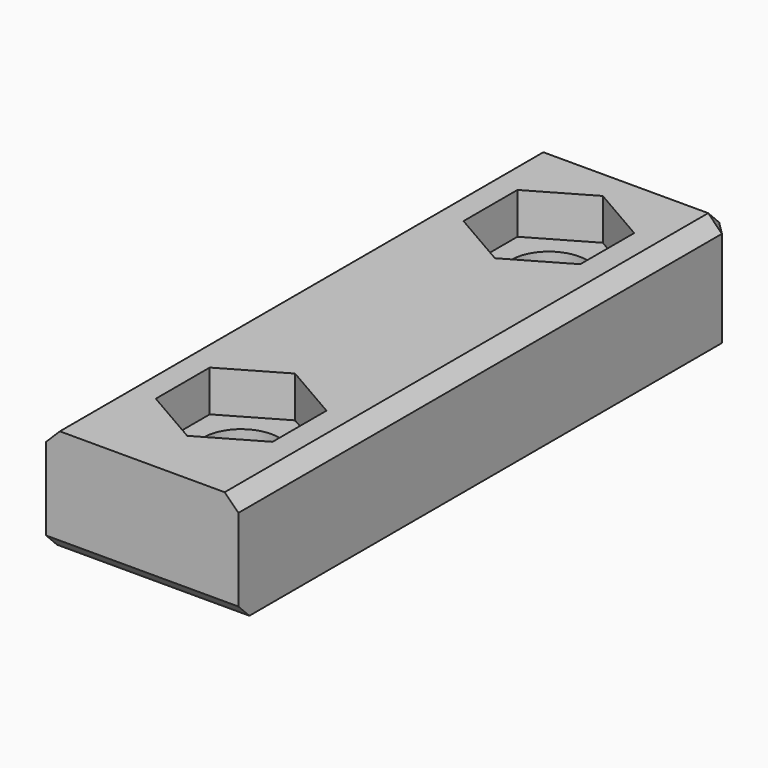
from build123d import *

# Parameters (mm, degrees)
F0_W     = 14
F0_H     = 45
F0_R     = 2.75
F1_DEPTH = 8
F3_DEPTH = 3
F4_SIZE  = 1


with BuildPart() as f1:
    # F0 (on Top) → F1 (new body)
    with BuildSketch(Plane.XY):
        with Locations((-15.778726, 15.456292)):
            Rectangle(F0_W, F0_H)
        with Locations((-15.778726, 1.956292)):
            Circle(F0_R, mode=Mode.SUBTRACT)
        with Locations((-15.778726, 29.956292)):
            Circle(F0_R, mode=Mode.SUBTRACT)
    extrude(amount=F1_DEPTH)

    # F2 (on face) → F3 (cut)
    with BuildSketch(Plane.XY.offset(8)):
        Polygon((-11.528726, 27.502553), (-11.528726, 32.41003), (-15.778726, 34.863769), (-20.028726, 32.41003), (-20.028726, 27.502553), (-15.778726, 25.048814), align=None)
        Polygon((-11.528726, -0.497447), (-11.528726, 4.41003), (-15.778726, 6.863769), (-20.028726, 4.41003), (-20.028726, -0.497447), (-15.778726, -2.951186), align=None)
    extrude(amount=-F3_DEPTH, mode=Mode.SUBTRACT)

    # F4
    f4_edges = [f1.edges().sort_by_distance(p)[0] for p in [
        (-15.778726, 37.956292, 8),
        (-8.778726, 37.956292, 4),
        (-22.778726, 37.956292, 4),
        (-15.778726, -7.043708, 0),
        (-8.778726, 15.456292, 8),
        (-22.778726, 15.456292, 8),
    ]]
    chamfer(f4_edges, length=F4_SIZE)


solid = f1.part
